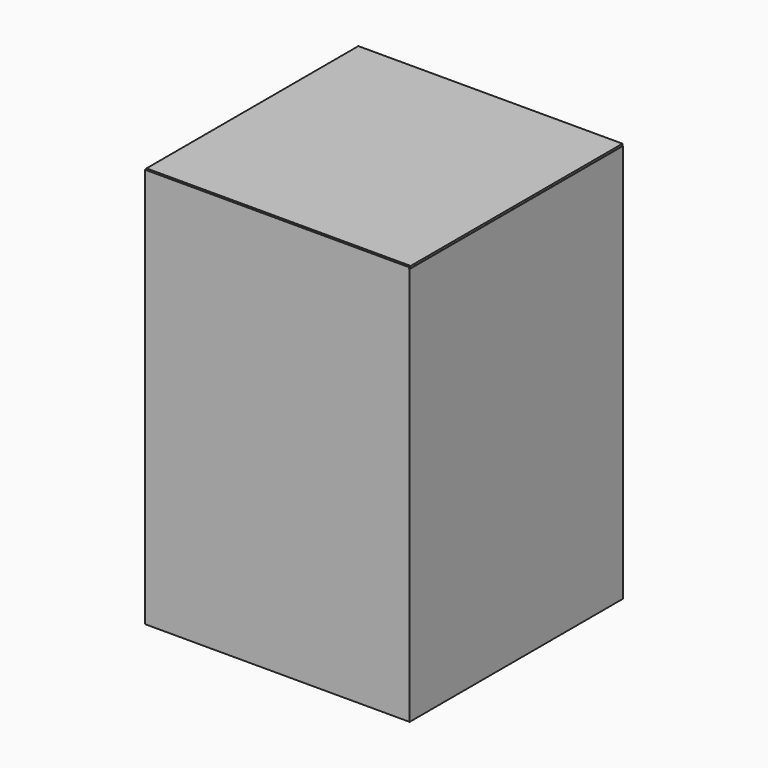
from build123d import *

# Parameters (mm, degrees)
F0_W      = 200
F0_H      = 300
F1_DEPTH  = 1.5
F2_W      = 20
F2_H      = 300
F3_DEPTH  = 200
F4_W      = 24.0114152431
F4_H      = 300
F5_DEPTH  = 200
F6_W      = 199.5166987181
F6_H      = 301.0709583759
F7_DEPTH  = 1.5
F9_R      = 32.6244324659
F10_DEPTH = 1.5
F11_W     = 200
F11_H     = 201.5
F12_DEPTH = 1.5
F13_W     = 199.7538208961
F13_H     = 200.2487033606
F14_DEPTH = 1.5


with BuildPart() as f1:
    # F0 (on Front) → F1 (new body)
    with BuildSketch(Plane.XZ):
        with Locations((100, 150)):
            Rectangle(F0_W, F0_H)
    extrude(amount=F1_DEPTH)

    # F2 (on Front) → F3 (join)
    with BuildSketch(Plane.XZ):
        with Locations((10, 150)):
            Rectangle(F2_W, F2_H)
    extrude(amount=F3_DEPTH)

    # F4 (on face) → F5 (join)
    with BuildSketch(Plane.XZ.offset(1.5)):
        with Locations((187.9942923784, 150)):
            Rectangle(F4_W, F4_H)
    extrude(amount=F5_DEPTH)

    # F6 (on face) → F7 (join)
    with BuildSketch(Plane.XZ.offset(200)):
        with Locations((99.758349359, 150.535479188)):
            Rectangle(F6_W, F6_H)
    extrude(amount=F7_DEPTH)

    # F9 (on face) → F10 (cut)
    with BuildSketch(Plane(origin=(0, 0, 0), x_dir=(-1, 0, 0), z_dir=(0, 1, 0))):
        with Locations((-98.5869541764, 82.1533799171)):
            Circle(F9_R)
    extrude(amount=-F10_DEPTH, mode=Mode.SUBTRACT)

    # F11 (on face) → F12 (join)
    with BuildSketch(Plane(origin=(0, 0, 0), x_dir=(1, 0, 0), z_dir=(0, 0, -1))):
        with Locations((100, 100.75)):
            Rectangle(F11_W, F11_H)
    extrude(amount=F12_DEPTH)

    # F13 (on face) → F14 (join)
    with BuildSketch(Plane.XY.offset(300)):
        with Locations((99.8769104481, -100.1243516803)):
            Rectangle(F13_W, F13_H)
    extrude(amount=F14_DEPTH)


solid = f1.part
